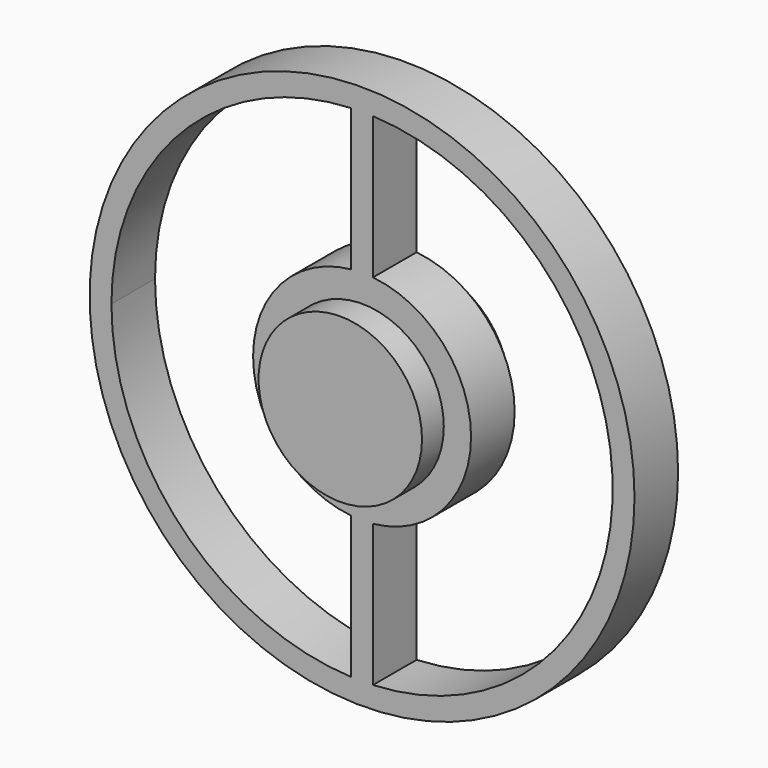
from build123d import *

# Parameters (mm, degrees)
F0_R      = 31.75
F1_DEPTH  = 3.175
F2_R      = 29.21
F3_DEPTH  = 6.351
F4_R      = 12.7
F5_DEPTH  = 3.175
F7_DEPTH  = 3.175
F8_COUNT  = 2
F9_R      = 9.525
F10_DEPTH = 6.35


with BuildPart() as f1:
    # F0 (on Front) → F1 (new body, symmetric)
    with BuildSketch(Plane.XZ):
        Circle(F0_R)
    extrude(amount=F1_DEPTH, both=True)

    # F2 (on face) → F3 (cut, through all)
    with BuildSketch(Plane.XZ.offset(3.175)):
        Circle(F2_R)
    extrude(amount=-F3_DEPTH, mode=Mode.SUBTRACT)



with BuildPart() as f5:
    # F4 (on Front) → F5 (new body, symmetric)
    with BuildSketch(Plane.XZ):
        Circle(F4_R)
    extrude(amount=F5_DEPTH, both=True)


with BuildPart() as f1_1:
    add(f1.part)

    add(f5.part)  # F7 merges F5
    # F6 (on Front) → F7 (join, symmetric)
    with BuildSketch(Plane.XZ):
        Polygon((1.27, 30.9208352119), (0, 30.9208352119), (-1.27, 30.9208352119), (-1.27, 0), (0, 0), (1.27, 0), align=None)
    extrude(amount=F7_DEPTH, both=True)

    # F8: F1 ×2 about axis
    f8_axis = Axis((0, -3.175, 0), (0, 1, 0))


with BuildPart() as f1_2:
    add(f1_1.part)
    for i in range(1, F8_COUNT):
        add(f1_1.part.rotate(f8_axis, i * 360 / F8_COUNT))

    # F9 (on Front) → F10 (join, symmetric)
    with BuildSketch(Plane.XZ):
        Circle(F9_R)
    extrude(amount=F10_DEPTH, both=True)


solid = f1_2.part
